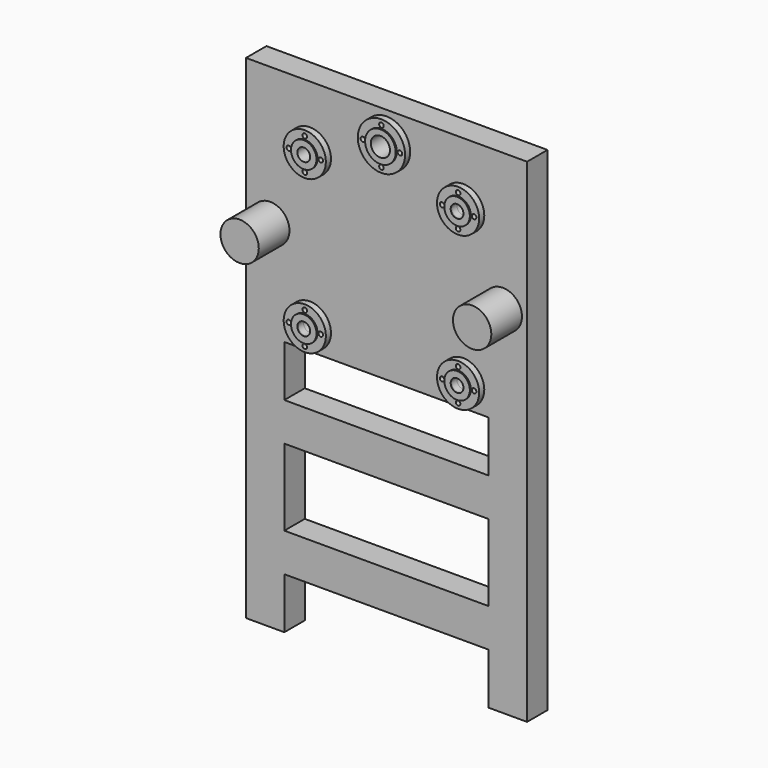
from build123d import *

# Parameters (mm, degrees)
F0_W      = 800
F0_H      = 300
F0_H_2    = 200
F1_DEPTH  = 100
F2_R      = 25
F2_R_2    = 75
F3_DEPTH  = 100
F4_R      = 75
F5_DEPTH  = 150
F6_R      = 82.5
F6_R_2    = 9
F6_R_3    = 25
F7_DEPTH  = 25
F8_R      = 50
F8_R_2    = 25
F9_DEPTH  = 5
F10_R     = 75
F11_DEPTH = 25
F12_R     = 37.5
F13_DEPTH = 100
F14_R     = 92.5
F14_R_2   = 9
F14_R_3   = 37.5
F15_DEPTH = 25
F16_R     = 60
F16_R_2   = 37.5
F17_DEPTH = 5


with BuildPart() as f1:
    # F0 (on Front) → F1 (new body)
    with BuildSketch(Plane.XZ):
        Polygon((400, -965), (550, -965), (550, 965), (-550, 965), (-550, -965), (-400, -965), (-400, -765), (400, -765), align=None)
        with Locations((0, -465)):
            Rectangle(F0_W, F0_H, mode=Mode.SUBTRACT)
        with Locations((0, -65)):
            Rectangle(F0_W, F0_H_2, mode=Mode.SUBTRACT)
    extrude(amount=F1_DEPTH)

    # F2 (on face) → F3 (cut)
    with BuildSketch(Plane.XZ.offset(100)):
        with Locations((-300, 125)):
            Circle(F2_R)
        with Locations((0, 425)):
            Circle(F2_R_2)
        with Locations((-300, 725)):
            Circle(F2_R)
        with Locations((300, 125)):
            Circle(F2_R)
        with Locations((300, 725)):
            Circle(F2_R)
    extrude(amount=-F3_DEPTH, mode=Mode.SUBTRACT)

    # F4 (on face) → F5 (join)
    with BuildSketch(Plane.XZ.offset(100)):
        with Locations((-455, 425)):
            Circle(F4_R)
        with Locations((455, 425)):
            Circle(F4_R)
    extrude(amount=F5_DEPTH)

    # F6 (on face) → F7 (join)
    with BuildSketch(Plane.XZ.offset(100)):
        with Locations((-300, 725)):
            Circle(F6_R)
        with Locations((-300, 662.5)):
            Circle(F6_R_2, mode=Mode.SUBTRACT)
        with Locations((-362.5, 725)):
            Circle(F6_R_2, mode=Mode.SUBTRACT)
        with Locations((-300, 725)):
            Circle(F6_R_3, mode=Mode.SUBTRACT)
        with Locations((-300, 787.5)):
            Circle(F6_R_2, mode=Mode.SUBTRACT)
        with Locations((-237.5, 725)):
            Circle(F6_R_2, mode=Mode.SUBTRACT)
        with Locations((-300, 125)):
            Circle(F6_R)
        with Locations((-300, 62.5)):
            Circle(F6_R_2, mode=Mode.SUBTRACT)
        with Locations((-362.5, 125)):
            Circle(F6_R_2, mode=Mode.SUBTRACT)
        with Locations((-300, 125)):
            Circle(F6_R_3, mode=Mode.SUBTRACT)
        with Locations((-237.5, 125)):
            Circle(F6_R_2, mode=Mode.SUBTRACT)
        with Locations((-300, 187.5)):
            Circle(F6_R_2, mode=Mode.SUBTRACT)
        with Locations((300, 725)):
            Circle(F6_R)
        with Locations((300, 662.5)):
            Circle(F6_R_2, mode=Mode.SUBTRACT)
        with Locations((237.5, 725)):
            Circle(F6_R_2, mode=Mode.SUBTRACT)
        with Locations((300, 725)):
            Circle(F6_R_3, mode=Mode.SUBTRACT)
        with Locations((362.5, 725)):
            Circle(F6_R_2, mode=Mode.SUBTRACT)
        with Locations((300, 787.5)):
            Circle(F6_R_2, mode=Mode.SUBTRACT)
        with Locations((300, 125)):
            Circle(F6_R)
        with Locations((237.5, 125)):
            Circle(F6_R_2, mode=Mode.SUBTRACT)
        with Locations((300, 62.5)):
            Circle(F6_R_2, mode=Mode.SUBTRACT)
        with Locations((300, 125)):
            Circle(F6_R_3, mode=Mode.SUBTRACT)
        with Locations((362.5, 125)):
            Circle(F6_R_2, mode=Mode.SUBTRACT)
        with Locations((300, 187.5)):
            Circle(F6_R_2, mode=Mode.SUBTRACT)
    extrude(amount=F7_DEPTH)

    # F8 (on face) → F9 (join)
    with BuildSketch(Plane.XZ.offset(125)):
        with Locations((-300, 725)):
            Circle(F8_R)
        with Locations((-300, 725)):
            Circle(F8_R_2, mode=Mode.SUBTRACT)
        with Locations((-300, 125)):
            Circle(F8_R)
        with Locations((-300, 125)):
            Circle(F8_R_2, mode=Mode.SUBTRACT)
        with Locations((300, 725)):
            Circle(F8_R)
        with Locations((300, 725)):
            Circle(F8_R_2, mode=Mode.SUBTRACT)
        with Locations((300, 125)):
            Circle(F8_R)
        with Locations((300, 125)):
            Circle(F8_R_2, mode=Mode.SUBTRACT)
    extrude(amount=F9_DEPTH)

    # F10 (on face) → F11 (join)
    with BuildSketch(Plane.XZ.offset(100)):
        with Locations((0, 425)):
            Circle(F10_R)
    extrude(amount=-F11_DEPTH)

    # F12 (on face) → F13 (cut)
    with BuildSketch(Plane.XZ.offset(100)):
        with Locations((0, 850)):
            Circle(F12_R)
    extrude(amount=-F13_DEPTH, mode=Mode.SUBTRACT)

    # F14 (on face) → F15 (join)
    with BuildSketch(Plane.XZ.offset(100)):
        with Locations((0, 850)):
            Circle(F14_R)
        with Locations((-72.5, 850)):
            Circle(F14_R_2, mode=Mode.SUBTRACT)
        with Locations((0, 777.5)):
            Circle(F14_R_2, mode=Mode.SUBTRACT)
        with Locations((0, 850)):
            Circle(F14_R_3, mode=Mode.SUBTRACT)
        with Locations((0, 922.5)):
            Circle(F14_R_2, mode=Mode.SUBTRACT)
        with Locations((72.5, 850)):
            Circle(F14_R_2, mode=Mode.SUBTRACT)
    extrude(amount=F15_DEPTH)

    # F16 (on face) → F17 (join)
    with BuildSketch(Plane.XZ.offset(125)):
        with Locations((0, 850)):
            Circle(F16_R)
        with Locations((0, 850)):
            Circle(F16_R_2, mode=Mode.SUBTRACT)
    extrude(amount=F17_DEPTH)


solid = f1.part
